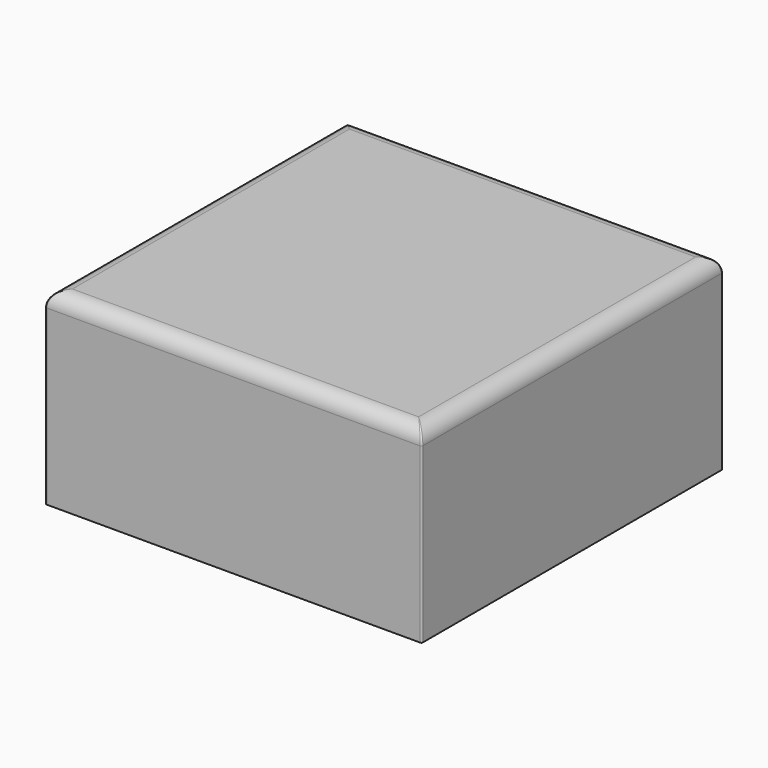
from build123d import *

# Parameters (mm, degrees)
BOX_W       = 50
BOX_H       = 50
BOX_DEPTH   = 25
FILLET_R    = 2
FILLET001_R = 0.2


with BuildPart() as part:
    # Box → Box (new body)
    with BuildSketch(Plane.XY):
        with Locations((25, 25)):
            Rectangle(BOX_W, BOX_H)
    extrude(amount=BOX_DEPTH)

    # Fillet
    fillet_edges = [part.edges().sort_by_distance(p)[0] for p in [
        (0, 25, 25),
        (25, 0, 25),
        (50, 25, 25),
        (25, 50, 25),
    ]]
    fillet(fillet_edges, radius=FILLET_R)

    # Fillet001
    fillet001_edges = [part.edges().sort_by_distance(p)[0] for p in [
        (0, 0, 11.5),
        (50, 0, 11.5),
        (50, 50, 11.5),
        (0, 50, 11.5),
    ]]
    fillet(fillet001_edges, radius=FILLET001_R)


solid = part.part
